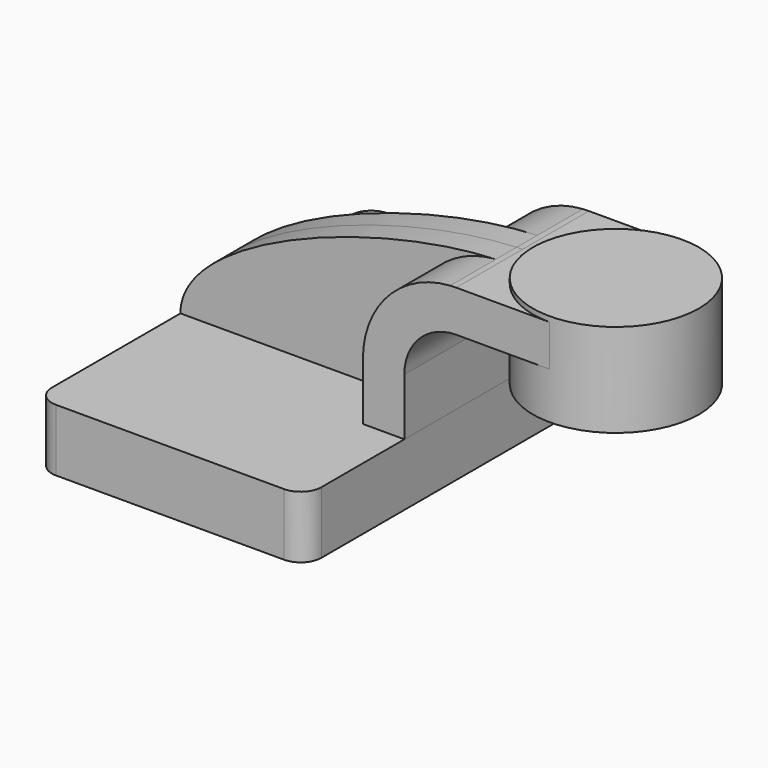
from build123d import *

# Parameters (mm, degrees)
F1_DEPTH = 63.5
F0_W     = 25.4
F0_H     = 12.7
F2_DEPTH = 25.4
F3_DEPTH = 7.9375
F5_R     = 6.35


with BuildPart() as f1:
    # F0 (on Front) → F1 (new body, symmetric)
    with BuildSketch(Plane.XZ):
        Polygon((28.575, 9.525), (-41.275, 9.525), (-41.275, -9.525), (41.275, -9.525), (41.275, 9.525), align=None)
    extrude(amount=F1_DEPTH, both=True)

    # F5
    f5_edges = [f1.edges().sort_by_distance(p)[0] for p in [
        (41.275, -63.5, 0),
        (41.275, 63.5, 0),
        (-41.275, -63.5, 0),
        (-41.275, 63.5, 0),
    ]]
    fillet(f5_edges, radius=F5_R)


with BuildPart() as f2:
    # F0 (on Front) → F2 (new body, symmetric)
    with BuildSketch(Plane.XZ):
        with BuildLine():
            Line((28.575, 27.0002), (28.575, 9.525))
            Line((28.575, 9.525), (41.275, 9.525))
            Line((41.275, 9.525), (41.275, 27.0002))
            ThreePointArc((41.275, 27.0002), (45.9246798487, 38.2255201513), (57.15, 42.8752))
            Line((57.15, 42.8752), (60.325, 42.8752))
            Line((60.325, 42.8752), (60.325, 55.5752))
            Line((60.325, 55.5752), (57.15, 55.5752))
            add(Edge.make_bspline(
                [(55.3036855907, 55.515489725), (55.9249396968, 55.5409407223), (56.5404963651, 55.560873618), (57.15, 55.5752)],
                knots=[106.9073705279, 106.9073705279, 106.9073705279, 106.9073705279, 108.6650888972, 108.6650888972, 108.6650888972, 108.6650888972], degree=3))
            ThreePointArc((55.3036855907, 55.515489725), (36.3018698771, 46.5421061347), (28.575, 27.0002))
        make_face()
        with Locations((73.025, 49.2252)):
            Rectangle(F0_W, F0_H)
    extrude(amount=F2_DEPTH, both=True)

    # F0 (on Front) → F4 (revolve)
    with BuildSketch(Plane.XZ):
        Polygon((85.725, 57.1627), (85.725, 55.5752), (85.725, 42.8752), (85.725, 28.5877), (111.125, 28.5877), (111.125, 57.1627), align=None)
    revolve(axis=Axis((85.725, 0, 42.8752), (0, 0, 1)))


with BuildPart() as f3:
    # F0 (on Front) → F3 (new body, symmetric)
    with BuildSketch(Plane.XZ):
        with BuildLine():
            add(Edge.make_bspline(
                [(-41.275, 9.525), (-41.344135521, 32.0065654019), (17.5179719771, 53.9675175093), (55.3036855907, 55.515489725)],
                knots=[0, 0, 0, 0, 106.9073705279, 106.9073705279, 106.9073705279, 106.9073705279], degree=3))
            Line((-41.275, 9.525), (28.575, 9.525))
            Line((28.575, 9.525), (28.575, 27.0002))
            ThreePointArc((28.575, 27.0002), (36.3018698771, 46.5421061347), (55.3036855907, 55.515489725))
        make_face()
    extrude(amount=F3_DEPTH, both=True)


solid = Compound([f1.part, f2.part, f3.part])
